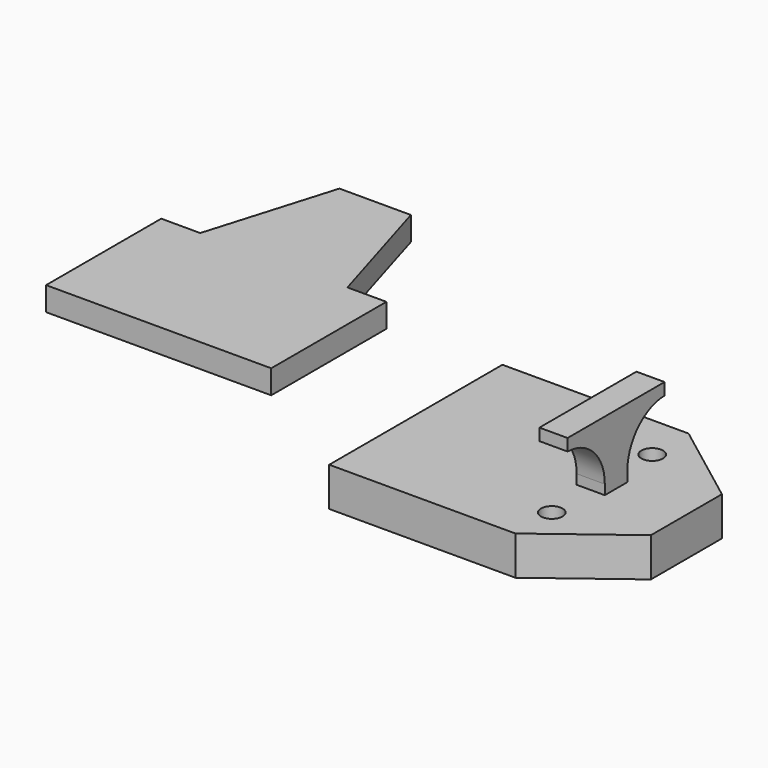
from build123d import *

# Parameters (mm, degrees)
F1_DEPTH = 11
F3_DEPTH = 18
F2_W     = 6.5
F2_H     = 6.5
F4_DEPTH = 50
F5_W     = 21.5
F5_H     = 5.5
F6_DEPTH = 13
F7_D     = 10
F7_DEPTH = 20
F7_TIP   = 3.0043030951


with BuildPart() as f1:
    # F0 (on Top) → F1 (new body)
    with BuildSketch(Plane.XY):
        Polygon((-40.4092696905, 90.2303121984), (-57.9092696905, 31.7303121984), (-23.9092696905, 31.7303121984), (-23.9092696905, 90.2303121984), align=None)
        Polygon((-23.9092696905, 90.2303121984), (-23.9092696905, 31.7303121984), (10.0907303095, 31.7303121984), (-7.4092696905, 90.2303121984), align=None)
        Polygon((10.0907303095, 31.7303121984), (-23.9092696905, 31.7303121984), (-23.9092696905, -34.7696878016), (28.0907303095, -34.7696878016), (28.0907303095, 31.7303121984), align=None)
        Polygon((-57.9092696905, 31.7303121984), (-75.9092696905, 31.7303121984), (-75.9092696905, -34.7696878016), (-23.9092696905, -34.7696878016), (-23.9092696905, 31.7303121984), align=None)
    extrude(amount=F1_DEPTH)


with BuildPart() as f3:
    # F2 (on Top) → F3 (new body)
    with BuildSketch(Plane.XY):
        Polygon((185.882166028, 8.9787812233), (99.882166028, 8.9787812233), (99.882166028, -41.0212187767), (179.382166028, -41.0212187767), (179.382166028, -34.5212187767), (185.882166028, -34.5212187767), (185.882166028, -12.0212187767), align=None)
        Polygon((179.382166028, -41.0212187767), (99.882166028, -41.0212187767), (99.882166028, -91.0212187767), (185.882166028, -91.0212187767), (185.882166028, -70.0212187767), (185.882166028, -47.5212187767), (179.382166028, -47.5212187767), align=None)
        Polygon((224.882166028, -61.5212187767), (224.882166028, -41.0212187767), (192.382166028, -41.0212187767), (192.382166028, -47.5212187767), (185.882166028, -47.5212187767), (185.882166028, -70.0212187767), (185.882166028, -91.0212187767), align=None)
        Polygon((224.882166028, -20.5212187767), (185.882166028, 8.9787812233), (185.882166028, -12.0212187767), (185.882166028, -34.5212187767), (192.382166028, -34.5212187767), (192.382166028, -41.0212187767), (224.882166028, -41.0212187767), align=None)
    extrude(amount=F3_DEPTH)

    # F2 (on Top) → F4 (join)
    with BuildSketch(Plane.XY):
        with Locations((189.132166028, -37.7712187767)):
            Rectangle(F2_W, F2_H)
        with Locations((182.632166028, -37.7712187767)):
            Rectangle(F2_W, F2_H)
        with Locations((182.632166028, -44.2712187767)):
            Rectangle(F2_W, F2_H)
        with Locations((189.132166028, -44.2712187767)):
            Rectangle(F2_W, F2_H)
    extrude(amount=F4_DEPTH)

    # F5 (on face) → F6 (join)
    with BuildSketch(Plane.YZ.offset(192.382166028)):
        with Locations((-58.2712187767, 47.25)):
            Rectangle(F5_W, F5_H)
        with Locations((-23.7712187767, 47.25)):
            Rectangle(F5_W, F5_H)
        with BuildLine():
            Line((-47.5212187767, 22.5), (-47.5212187767, 44.5))
            Line((-47.5212187767, 44.5), (-69.0212187767, 44.5))
            Line((-69.0212187767, 44.5), (-69.0212187767, 44.4943174479))
            ThreePointArc((-69.0212187767, 44.4943174479), (-53.7890860542, 37.8785564992), (-47.5212187767, 22.5))
        make_face()
        with BuildLine():
            Line((-13.0212187767, 44.5), (-34.5212187767, 44.5))
            Line((-34.5212187767, 44.5), (-34.5212187767, 22.5))
            ThreePointArc((-34.5212187767, 22.5), (-28.2533514993, 37.8785564992), (-13.0212187767, 44.4943174479))
            Line((-13.0212187767, 44.4943174479), (-13.0212187767, 44.5))
        make_face()
    extrude(amount=-F6_DEPTH)

    # F7
    with Locations(Plane(origin=(0, 0, 0), x_dir=(1, 0, 0), z_dir=(0, 0, -1))):
        with Locations((185.882166028, 70.0212187767), (185.882166028, 12.0212187767)):
            Hole(F7_D / 2, depth=F7_DEPTH)
            with Locations((0, 0, -(F7_DEPTH + F7_TIP / 2))):  # 118° drill point
                Cone(0, F7_D / 2, F7_TIP, mode=Mode.SUBTRACT)


solid = Compound([f1.part, f3.part])
